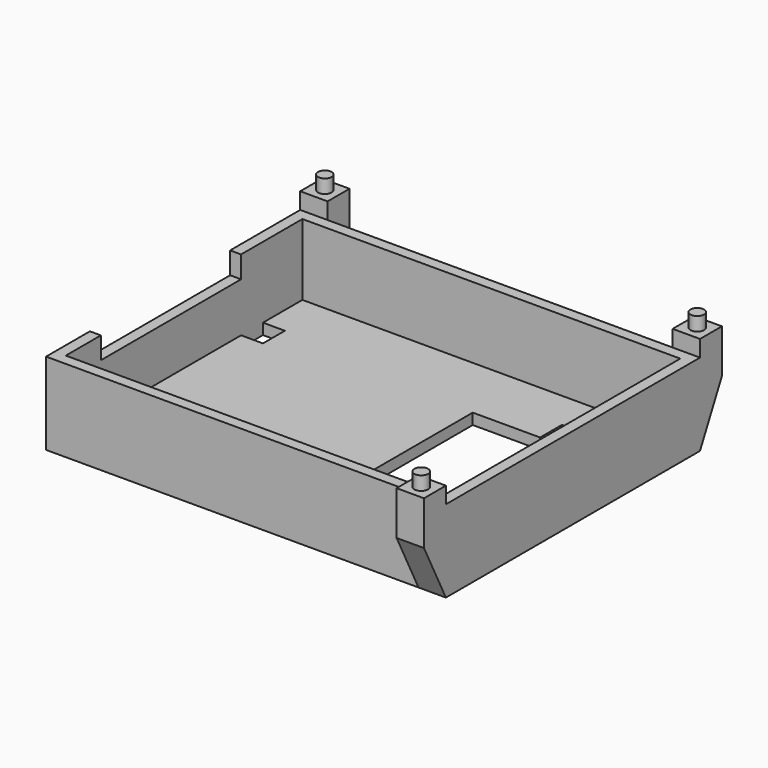
from build123d import *

# Parameters (mm, degrees)
F0_W      = 73
F0_H      = 58
F1_DEPTH  = 15
F2_DEPTH  = 2
F3_W      = 5
F3_H      = 15
F4_DEPTH  = 5
F5_W      = 5
F5_H      = 15
F6_DEPTH  = 5
F7_R      = 1.25
F8_DEPTH  = 5.5
F9_DEPTH  = 5.5
F11_DEPTH = 73.001
F12_W     = 32
F12_H     = 4
F13_DEPTH = 2
F7_W      = 5
F7_H      = 5
F14_DEPTH = 3


with BuildPart() as f1:
    # F0 (on Top) → F1 (new body)
    with BuildSketch(Plane.XY):
        Rectangle(F0_W, F0_H)
        Polygon((-34.5, 18), (-34.5, 27), (34.5, 27), (34.5, 15), (34.5, -16), (34.5, -27), (-17.5, -27), (-34.5, -27), (-34.5, -18), (-34.5, 13), align=None, mode=Mode.SUBTRACT)
    extrude(amount=F1_DEPTH)

    # F0 (on Top) → F2 (join)
    with BuildSketch(Plane.XY):
        Polygon((34.5, 27), (-34.5, 27), (-34.5, 18), (-30.5, 18), (-30.5, 13), (-34.5, 13), (-34.5, -18), (-17.5, -18), (-17.5, -27), (34.5, -27), (34.5, -16), (6.203858, -16), (6.203858, 15), (18.5, 15), (18.5, 20), (21.5, 20), (21.5, 15), (34.5, 15), align=None)
    extrude(amount=F2_DEPTH)

    # F3 (on face) → F4 (join)
    with BuildSketch(Plane(origin=(0, 29, 0), x_dir=(-1, 0, 0), z_dir=(0, 1, 0))):
        with Locations((-34, 7.5)):
            Rectangle(F3_W, F3_H)
        with Locations((34, 7.5)):
            Rectangle(F3_W, F3_H)
    extrude(amount=F4_DEPTH)

    # F5 (on face) → F6 (join)
    with BuildSketch(Plane.XZ.offset(29)):
        with Locations((34, 7.5)):
            Rectangle(F5_W, F5_H)
    extrude(amount=F6_DEPTH)

    # F7 (on face) → F8 (join)
    with BuildSketch(Plane.XY.offset(15)):
        with Locations((34, -31.5)):
            Circle(F7_R)
        with Locations((-34, 31.5)):
            Circle(F7_R)
    extrude(amount=F8_DEPTH)

    # F7 (on face) → F9 (join)
    with BuildSketch(Plane.XY.offset(15)):
        with Locations((34, 31.5)):
            Circle(F7_R)
    extrude(amount=F9_DEPTH)

    # F10 (on face) → F11 (cut, through all)
    with BuildSketch(Plane.YZ.offset(36.5)):
        Polygon((-34, 0), (-29, 0), (-34, 10), align=None)
        Polygon((34, 0), (34, 10), (29, 0), align=None)
    extrude(amount=-F11_DEPTH, mode=Mode.SUBTRACT)

    # F12 (on face) → F13 (cut)
    with BuildSketch(Plane(origin=(-36.5, 0, 0), x_dir=(0, -1, 0), z_dir=(-1, 0, 0))):
        with Locations((3, 13)):
            Rectangle(F12_W, F12_H)
    extrude(amount=-F13_DEPTH, mode=Mode.SUBTRACT)

    # F7 (on face) → F14 (join)
    with BuildSketch(Plane.XY.offset(15)):
        with Locations((34, -31.5)):
            Rectangle(F7_W, F7_H)
        with Locations((34, -31.5)):
            Circle(F7_R, mode=Mode.SUBTRACT)
        with Locations((34, 31.5)):
            Rectangle(F7_W, F7_H)
        with Locations((34, 31.5)):
            Circle(F7_R, mode=Mode.SUBTRACT)
        with Locations((-34, 31.5)):
            Rectangle(F7_W, F7_H)
        with Locations((-34, 31.5)):
            Circle(F7_R, mode=Mode.SUBTRACT)
    extrude(amount=F14_DEPTH)


solid = f1.part
